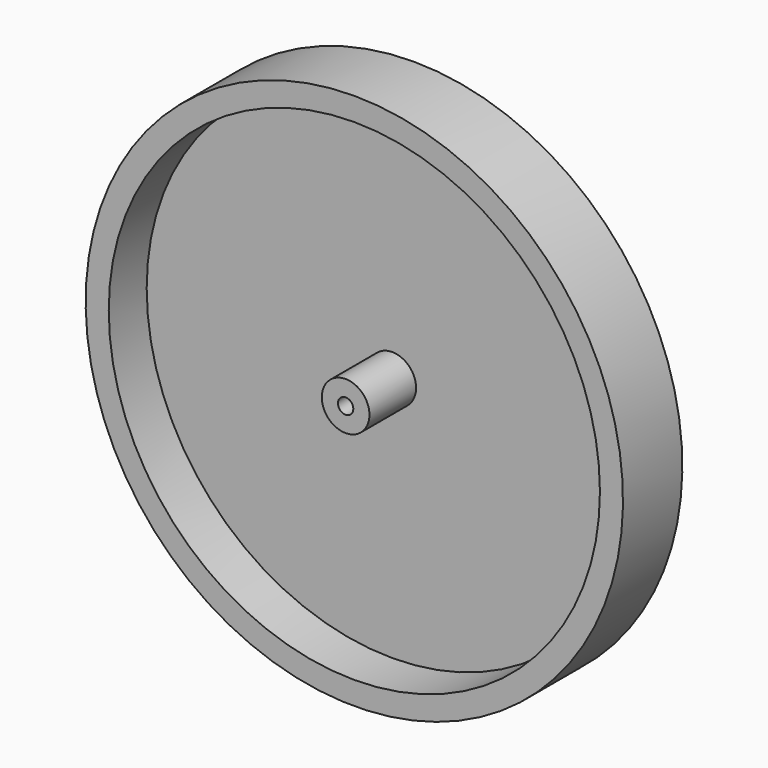
from build123d import *

# Parameters (mm, degrees)
F3_W = 3.1359323766
F3_H = 60.3541191667


with BuildPart() as f2:
    # F0 (on Right) → F2 (revolve)
    with BuildSketch(Plane.YZ):
        Polygon((0, 1.7982171848), (0, 63.0117803812), (-17.3947568983, 63.0117803812), (-17.3947568983, 57.600159198), (-6.2708631158, 57.600159198), (-6.2708631158, 40.162704885), (-6.2708631158, 5.5884346366), (-19.9502557516, 5.5884346366), (-19.9502557516, 1.7982171848), align=None)
    revolve(axis=Axis((0, -6.3099395484, 0), (0, -1, 0)))

    # F3 (on Right) → F4 (revolve, cut)
    with BuildSketch(Plane.YZ):
        with Locations((-1.5679661883, 30.1770595834)):
            Rectangle(F3_W, F3_H)
    revolve(axis=Axis((0, -6.3099395484, 0), (0, -1, 0)), mode=Mode.SUBTRACT)


solid = f2.part
